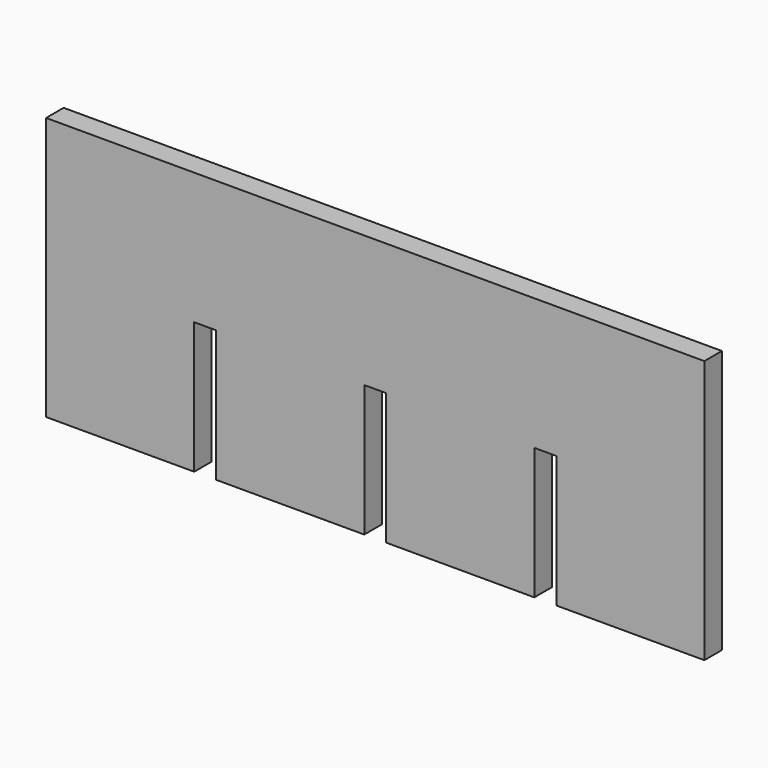
from build123d import *

# Parameters (mm, degrees)
F0_W     = 381
F0_H     = 152.4
F1_DEPTH = 12.7
F2_W     = 12.7
F2_H     = 76.2
F3_DEPTH = 12.7


with BuildPart() as f1:
    # F0 (on Front) → F1 (new body)
    with BuildSketch(Plane.XZ):
        with Locations((55.901086, 23.774853)):
            Rectangle(F0_W, F0_H)
    extrude(amount=F1_DEPTH)

    # F2 (on face) → F3 (cut)
    with BuildSketch(Plane.XZ.offset(12.7)):
        with Locations((-42.523914, -14.325147)):
            Rectangle(F2_W, F2_H)
        with Locations((55.901086, -14.325147)):
            Rectangle(F2_W, F2_H)
        with Locations((154.326086, -14.325147)):
            Rectangle(F2_W, F2_H)
    extrude(amount=-F3_DEPTH, mode=Mode.SUBTRACT)


solid = f1.part
